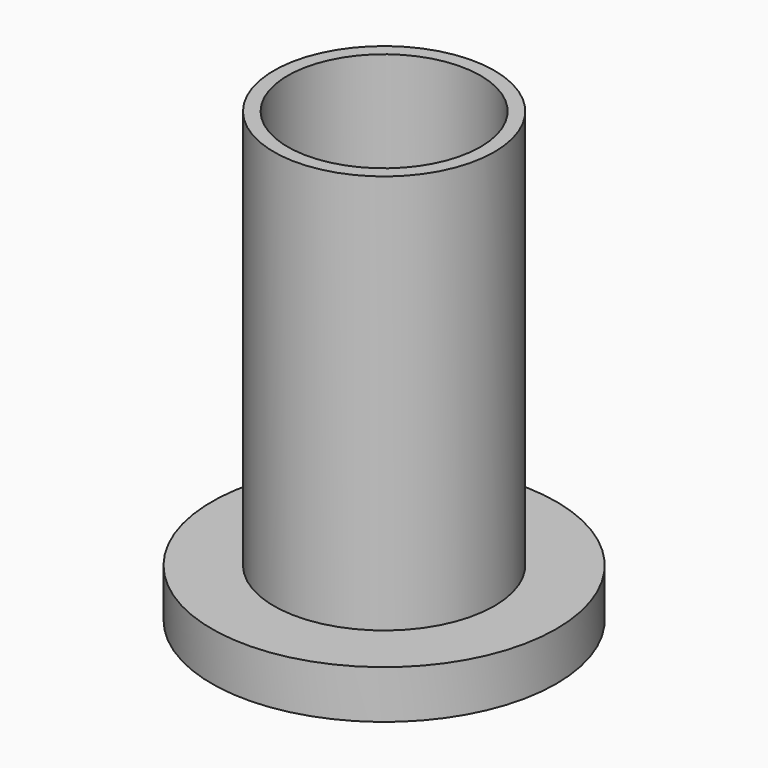
from build123d import *

# Parameters (mm, degrees)
F0_R     = 6.25
F1_DEPTH = 1
F2_R     = 6.25
F2_R_2   = 5.75
F3_DEPTH = 0.75
F4_R     = 4
F5_DEPTH = 14.5
F6_R     = 3.5
F7_DEPTH = 25
F8_SIZE  = 0.3


with BuildPart() as f1:
    # F0 (on Top) → F1 (new body)
    with BuildSketch(Plane.XY):
        Circle(F0_R)
    extrude(amount=F1_DEPTH)

    # F2 (on face) → F3 (join)
    with BuildSketch(Plane(origin=(0, 0, 0), x_dir=(1, 0, 0), z_dir=(0, 0, -1))):
        Circle(F2_R)
        Circle(F2_R_2, mode=Mode.SUBTRACT)
    extrude(amount=F3_DEPTH)

    # F4 (on face) → F5 (join)
    with BuildSketch(Plane.XY.offset(1)):
        Circle(F4_R)
    extrude(amount=F5_DEPTH)

    # F6 (on face) → F7 (cut)
    with BuildSketch(Plane.XY.offset(15.5)):
        Circle(F6_R)
    extrude(amount=-F7_DEPTH, mode=Mode.SUBTRACT)

    # F8
    f8_edges = [f1.edges().sort_by_distance(p)[0] for p in [
        (-5.75, 0, -0.75),
    ]]
    chamfer(f8_edges, length=F8_SIZE)


solid = f1.part
